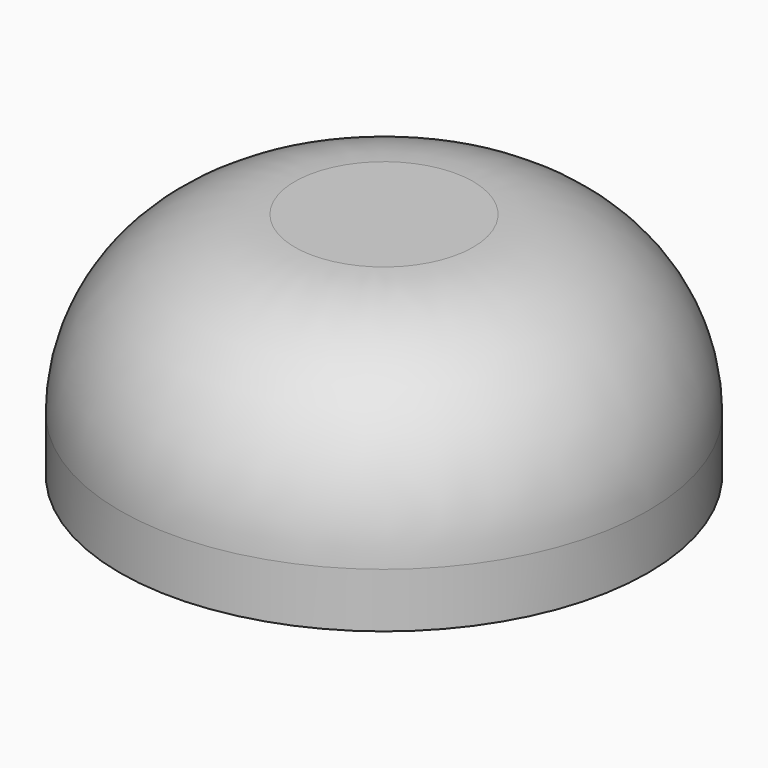
from build123d import *

# Parameters (mm, degrees)
F0_R     = 5.75
F1_DEPTH = 2.5
F2_R     = 3.81


with BuildPart() as f1:
    # F0 (on Top) → F1 (new body, symmetric)
    with BuildSketch(Plane.XY):
        Circle(F0_R)
    extrude(amount=F1_DEPTH, both=True)

    # F2
    f2_edges = [f1.edges().sort_by_distance(p)[0] for p in [
        (-5.75, 0, 2.5),
    ]]
    fillet(f2_edges, radius=F2_R)


solid = f1.part
